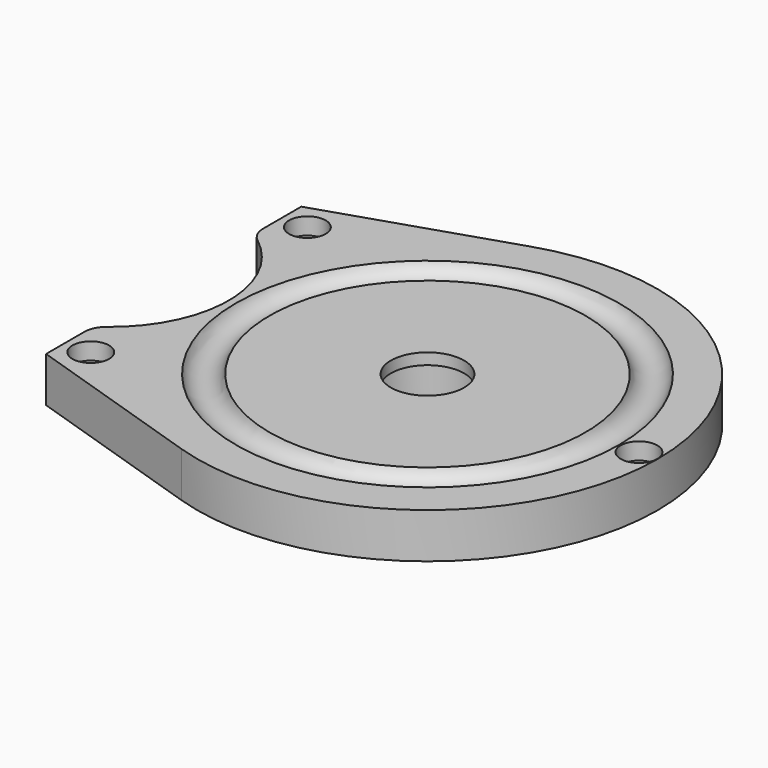
from build123d import *

# Parameters (mm, degrees)
F0_R            = 40.8
F1_DEPTH        = 8
F4_R            = 3.15
F6_W            = 4.8
F6_H            = 38.4
F7_DEPTH        = 8.001
F9_DEPTH        = 8
F10_R           = 21
F11_DEPTH       = 8.001
F12_R           = 4
F14_D           = 3.3
F14_CBORE_D     = 6.5
F14_CBORE_DEPTH = 3


with BuildPart() as f1:
    # F0 (on Top) → F1 (new body)
    with BuildSketch(Plane.XY):
        Circle(F0_R)
    extrude(amount=F1_DEPTH)

    # F2 (on Right) → F3 (revolve, cut)
    with BuildSketch(Plane.YZ):
        Polygon((0, 8), (0, 0), (8.65, 0), (8.65, 6), (6.5, 6), (6.5, 8), align=None)
    revolve(axis=Axis((0, 0, 10.7360328796), (0, 0, 1)), mode=Mode.SUBTRACT)

    # F4 (on Right) → F5 (revolve, cut)
    with BuildSketch(Plane.YZ):
        with Locations((31, 9)):
            Circle(F4_R)
    revolve(axis=Axis((0, 0, 6.3867427816), (0, 0, 1)), mode=Mode.SUBTRACT)

    # F6 (on Top) → F7 (cut, through all)
    with BuildSketch(Plane.XY):
        with Locations((-38.4, 0)):
            Rectangle(F6_W, F6_H)
    extrude(amount=F7_DEPTH, mode=Mode.SUBTRACT)

    # F8 (on Top) → F9 (join, through all)
    with BuildSketch(Plane.XY):
        with BuildLine():
            Line((-45, 28.2782724184), (-45, -28.2782724184))
            Line((-45, -28.2782724184), (-12.6078933705, -38.8031058648))
            ThreePointArc((-12.6078933705, -38.8031058648), (-26.2059585661, -31.2711965814), (-36, -19.2))
            Line((-36, -19.2), (-36, 19.2))
            ThreePointArc((-36, 19.2), (-26.2059585661, 31.2711965814), (-12.6078933705, 38.8031058648))
            Line((-12.6078933705, 38.8031058648), (-45, 28.2782724184))
        make_face()
    extrude(amount=F9_DEPTH)

    # F10 (on face) → F11 (cut, through all)
    with BuildSketch(Plane.XY.offset(8)):
        with Locations((-56.25, 0)):
            Circle(F10_R)
    extrude(amount=-F11_DEPTH, mode=Mode.SUBTRACT)

    # F12
    f12_edges = [f1.edges().sort_by_distance(p)[0] for p in [
        (-45, -17.732386, 4),
        (-45, 17.732386, 4),
    ]]
    fillet(f12_edges, radius=F12_R)

    # F14 (through all)
    with Locations(Plane.XY.offset(8)):
        with Locations((-40.5, 24), (-40.5, -24), (37.5, 0)):
            CounterBoreHole(F14_D / 2, F14_CBORE_D / 2, F14_CBORE_DEPTH)


solid = f1.part
